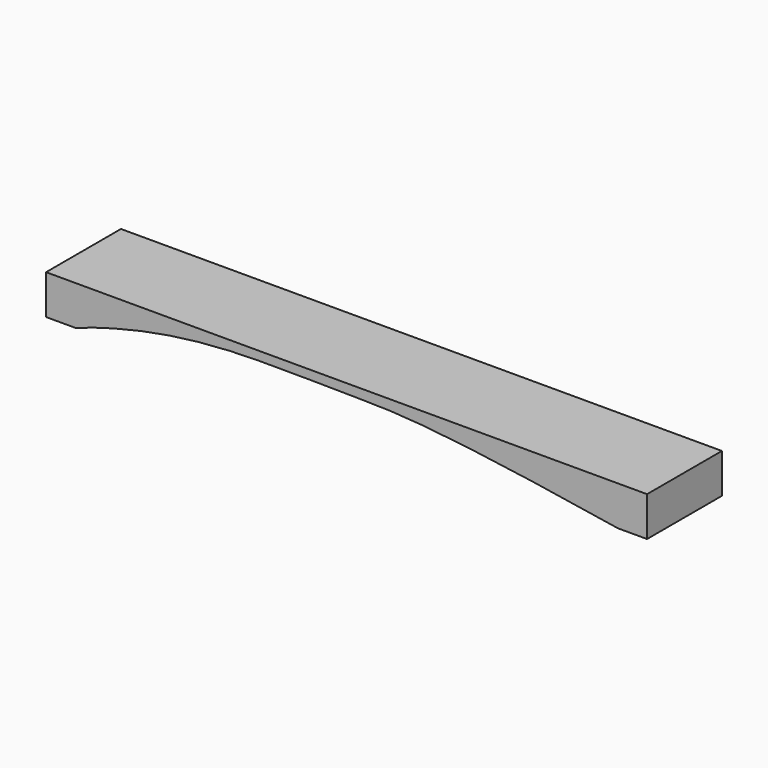
from build123d import *

# Parameters (mm, degrees)
BAR_DEPTH = 68.58


with BuildPart() as part:
    # Sketch → Bar (new body)
    with BuildSketch(Plane.XZ):
        with BuildLine():
            Line((21.4, 0), (0, 0))
            Line((0, 0), (0, 28.96))
            Line((0, 28.96), (440.4, 28.96))
            Line((440.4, 28.96), (440.4, 0))
            Line((440.4, 0), (419, 0))
            add(Edge.make_bspline(
                [(419, 0), (290.99, 21.03), (226.23, 22.06), (192.2, 22.52), (86.07, 22.85), (21.4, 0)],
                knots=[0, 0, 0, 0, 0.333333, 0.666667, 1, 1, 1, 1], degree=3))
        make_face()
    extrude(amount=BAR_DEPTH)


solid = part.part
